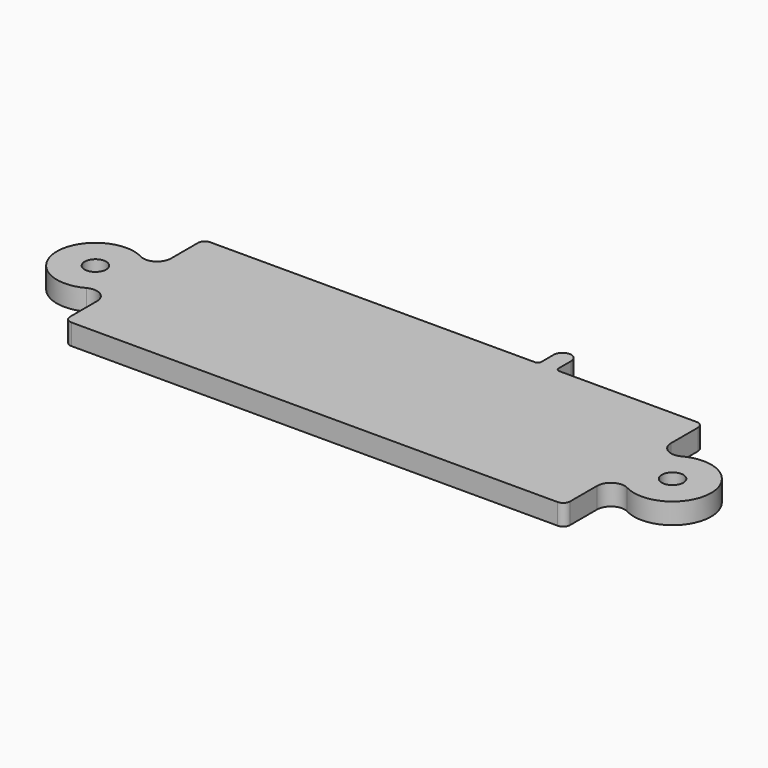
from build123d import *

# Parameters (mm, degrees)
F0_R     = 1.55
F1_DEPTH = 3
F3_DEPTH = 3
F4_R     = 1.25
F5_DEPTH = 3
F6_SIZE  = 0.5


with BuildPart() as f1:
    # F0 (on Top) → F1 (new body)
    with BuildSketch(Plane.XY):
        with BuildLine():
            Line((19, 25), (-51, 25))
            ThreePointArc((-51, 25), (-51.707107, 24.707107), (-52, 24))
            Line((-52, 24), (-52, 19.163332))
            Line((-52, 19.163332), (-52, 5.836668))
            Line((-52, 5.836668), (-52, 1))
            ThreePointArc((-52, 1), (-51.707107, 0.292893), (-51, 0))
            Line((-51, 0), (19, 0))
            ThreePointArc((19, 0), (19.707107, 0.292893), (20, 1))
            Line((20, 1), (20, 5.836668))
            Line((20, 5.836668), (20, 19.163332))
            Line((20, 19.163332), (20, 24))
            ThreePointArc((20, 24), (19.707107, 24.707107), (19, 25))
        make_face()
        with BuildLine():
            Line((-52, 5.836668), (-52, 19.163332))
            ThreePointArc((-52, 19.163332), (-52.97063, 17.448574), (-54.940397, 17.398211))
            ThreePointArc((-54.940397, 17.398211), (-63.1, 12.5), (-54.940397, 7.601789))
            ThreePointArc((-54.940397, 7.601789), (-52.97063, 7.551426), (-52, 5.836668))
        make_face()
        with Locations((-57.55, 12.5)):
            Circle(F0_R, mode=Mode.SUBTRACT)
        with BuildLine():
            ThreePointArc((22.940397, 17.398211), (20.97063, 17.448574), (20, 19.163332))
            Line((20, 19.163332), (20, 5.836668))
            ThreePointArc((20, 5.836668), (20.97063, 7.551426), (22.940397, 7.601789))
            ThreePointArc((22.940397, 7.601789), (31.1, 12.5), (22.940397, 17.398211))
        make_face()
        with Locations((25.55, 12.5)):
            Circle(F0_R, mode=Mode.SUBTRACT)
    extrude(amount=F1_DEPTH)

    # F2 (on face) → F3 (join, through all)
    with BuildSketch(Plane.XY.offset(3)):
        with BuildLine():
            Line((-4.25, 25), (-3.75, 25))
            Line((-3.75, 25), (-1.25, 25))
            Line((-1.25, 25), (-0.75, 25))
            ThreePointArc((-0.75, 25), (-1.103553, 25.146447), (-1.25, 25.5))
            Line((-1.25, 25.5), (-1.25, 27.75))
            ThreePointArc((-1.25, 27.75), (-2.5, 29), (-3.75, 27.75))
            Line((-3.75, 27.75), (-3.75, 25.5))
            ThreePointArc((-3.75, 25.5), (-3.896447, 25.146447), (-4.25, 25))
        make_face()
    extrude(amount=-F3_DEPTH)

    # F4 (on face) → F5 (join)
    with BuildSketch(Plane(origin=(0, 0, 0), x_dir=(1, 0, 0), z_dir=(0, 0, -1))):
        with Locations((-2.5, -27.75)):
            Circle(F4_R)
    extrude(amount=F5_DEPTH)

    # F6
    f6_edges = [f1.edges().sort_by_distance(p)[0] for p in [
        (-3.75, 27.75, -3),
    ]]
    chamfer(f6_edges, length=F6_SIZE)


solid = f1.part
